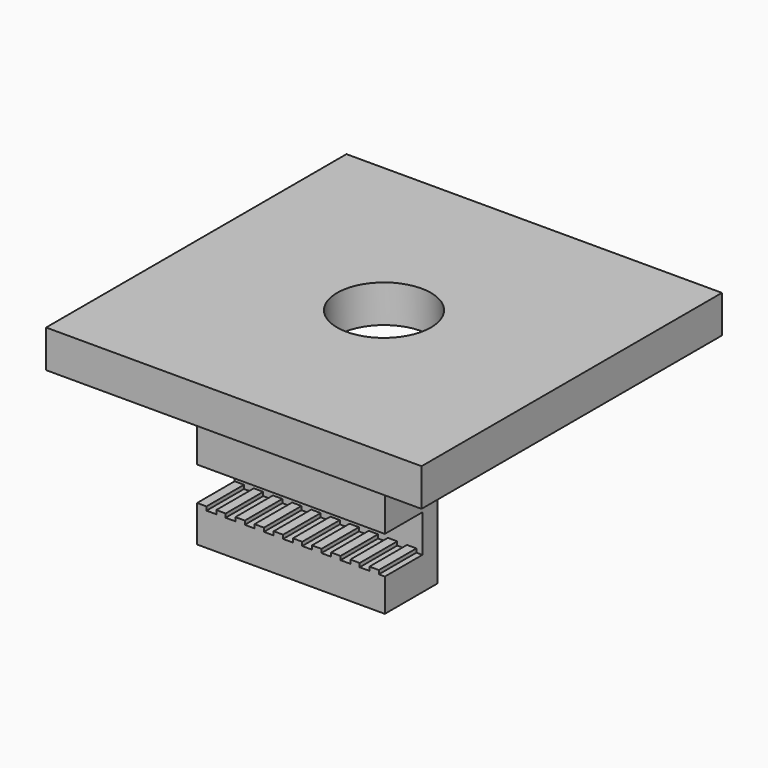
from build123d import *

# Parameters (mm, degrees)
F0_W     = 25.4
F0_H     = 2.54
F1_DEPTH = 25.4
F2_R     = 3.175
F3_DEPTH = 25.4
F4_W     = 12.7
F4_H     = 4.445
F5_DEPTH = 9.525
F6_W     = 12.7
F6_H     = 2.54
F7_DEPTH = 3.175
F8_W     = 0.635
F8_H     = 3.175
F9_DEPTH = 0.254


with BuildPart() as f1:
    # F0 (on Right) → F1 (new body)
    with BuildSketch(Plane.YZ):
        Rectangle(F0_W, F0_H)
    extrude(amount=F1_DEPTH)

    # F2 (on face) → F3 (cut)
    with BuildSketch(Plane.XY.offset(1.27)):
        with Locations((12.7, 0)):
            Circle(F2_R)
    extrude(amount=-F3_DEPTH, mode=Mode.SUBTRACT)

    # F4 (on face) → F5 (join)
    with BuildSketch(Plane(origin=(0, 0, -1.27), x_dir=(1, 0, 0), z_dir=(0, 0, -1))):
        with Locations((13.610998, 6.782856)):
            Rectangle(F4_W, F4_H)
    extrude(amount=F5_DEPTH)

    # F6 (on face) → F7 (cut)
    with BuildSketch(Plane.XZ.offset(9.005356)):
        with Locations((13.610998, -7.3025)):
            Rectangle(F6_W, F6_H)
    extrude(amount=-F7_DEPTH, mode=Mode.SUBTRACT)

    # F8 (on face) → F9 (join)
    with BuildSketch(Plane.XY.offset(-8.5725)):
        with Locations((8.873898, -7.417856)):
            Rectangle(F8_W, F8_H)
        with Locations((7.578498, -7.417856)):
            Rectangle(F8_W, F8_H)
        with Locations((10.169298, -7.417856)):
            Rectangle(F8_W, F8_H)
        with Locations((11.464698, -7.417856)):
            Rectangle(F8_W, F8_H)
        with Locations((12.760098, -7.417856)):
            Rectangle(F8_W, F8_H)
        with Locations((14.055498, -7.417856)):
            Rectangle(F8_W, F8_H)
        with Locations((15.350898, -7.417856)):
            Rectangle(F8_W, F8_H)
        with Locations((16.646298, -7.417856)):
            Rectangle(F8_W, F8_H)
        with Locations((17.941698, -7.417856)):
            Rectangle(F8_W, F8_H)
        with Locations((19.237098, -7.417856)):
            Rectangle(F8_W, F8_H)
    extrude(amount=F9_DEPTH)


solid = f1.part
